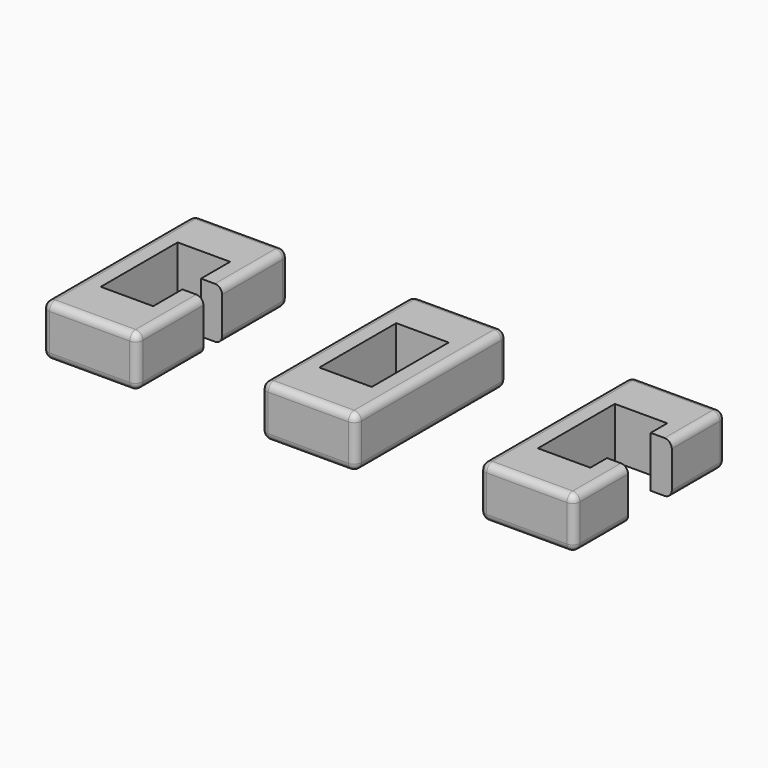
from build123d import *

# Parameters (mm, degrees)
F0_W      = 13
F0_H      = 26
F1_DEPTH  = 7
F3_DEPTH  = 7.001
F4_R      = 1
F6_W      = 10
F6_H      = 7.5
F7_DEPTH  = 7.001
F9_W      = 10
F9_H      = 3.2
F10_DEPTH = 7.001


with BuildPart() as f1:
    # F0 (on Top) → F1 (new body)
    with BuildSketch(Plane.XY):
        with Locations((-0.280514, -0.271288)):
            Rectangle(F0_W, F0_H)
    extrude(amount=-F1_DEPTH)

    # F2 (on face) → F3 (cut, through all)
    with BuildSketch(Plane.XY):
        Polygon((-0.280514, 6.328712), (-3.880514, 6.328712), (-3.880514, -0.271288), (-3.880514, -6.871288), (-0.280514, -6.871288), (3.319486, -6.871288), (3.319486, -0.271288), (3.319486, 6.328712), align=None)
    extrude(amount=-F3_DEPTH, mode=Mode.SUBTRACT)

    # F4
    f4_edges = [f1.edges().sort_by_distance(p)[0] for p in [
        (6.219486, -13.271288, -3.5),
        (6.219486, 12.728712, -3.5),
        (-6.780514, -13.271288, -3.5),
        (-6.780514, 12.728712, -3.5),
        (6.219486, -0.271288, 0),
        (-0.280514, -13.271288, 0),
        (-6.780514, -0.271288, 0),
        (-0.280514, 12.728712, 0),
        (-0.280514, -13.271288, -7),
        (6.219486, -0.271288, -7),
        (-0.280514, 12.728712, -7),
        (-6.780514, -0.271288, -7),
    ]]
    fillet(f4_edges, radius=F4_R)


with BuildPart() as f5_1:
    # F5: copy of F1
    add(f1.part.moved(Location((30, 0, 0))))

    # F6 (on face) → F7 (cut, through all)
    with BuildSketch(Plane.XY):
        with Locations((35.119486, -0.271288)):
            Rectangle(F6_W, F6_H)
    extrude(amount=-F7_DEPTH, mode=Mode.SUBTRACT)


with BuildPart() as f8_1:
    # F8: copy of F1
    add(f1.part.moved(Location((-30, 0, 0))))

    # F9 (on face) → F10 (cut, through all)
    with BuildSketch(Plane.XY):
        with Locations((-24.880514, -0.271288)):
            Rectangle(F9_W, F9_H)
    extrude(amount=-F10_DEPTH, mode=Mode.SUBTRACT)


solid = Compound([f1.part, f5_1.part, f8_1.part])
